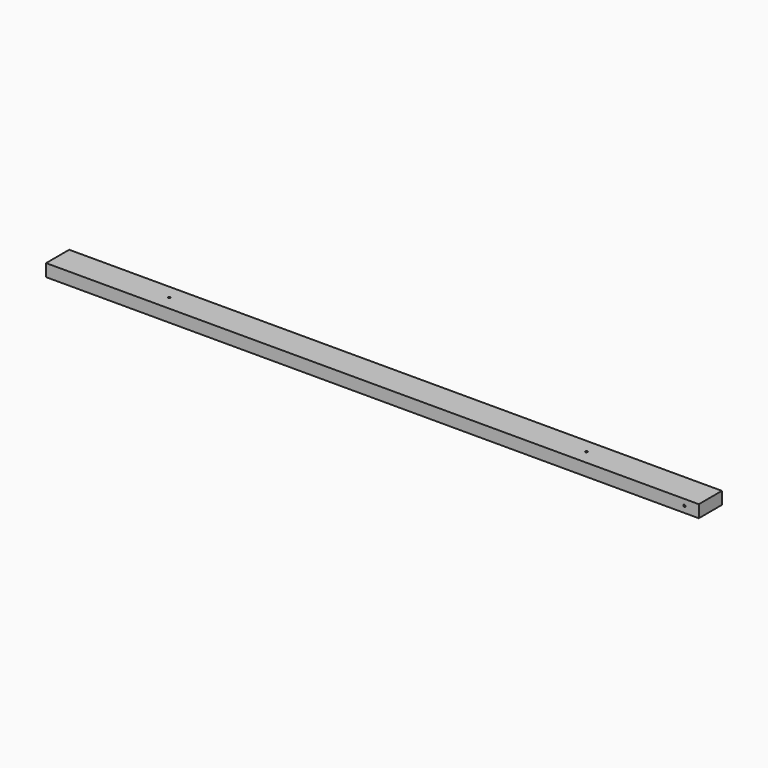
from build123d import *

# Parameters (mm, degrees)
F0_W     = 88.9
F0_H     = 38.1
F1_DEPTH = 2006.6
F2_R     = 3.302
F3_DEPTH = 38.101
F4_R     = 3.302
F5_DEPTH = 88.901


with BuildPart() as f1:
    # F0 (on Right) → F1 (new body)
    with BuildSketch(Plane.YZ):
        Rectangle(F0_W, F0_H)
        Rectangle(F0_W, F0_H)
    extrude(amount=F1_DEPTH)

    # F2 (on face) → F3 (cut, through all)
    with BuildSketch(Plane.XY.offset(19.05)):
        with Locations((342.9, 0)):
            Circle(F2_R)
        with Locations((1625.6, 0)):
            Circle(F2_R)
    extrude(amount=-F3_DEPTH, mode=Mode.SUBTRACT)

    # F4 (on face) → F5 (cut, through all)
    with BuildSketch(Plane(origin=(0, 44.45, 0), x_dir=(-1, 0, 0), z_dir=(0, 1, 0))):
        with Locations((-1962.15, 0)):
            Circle(F4_R)
    extrude(amount=-F5_DEPTH, mode=Mode.SUBTRACT)


solid = f1.part
